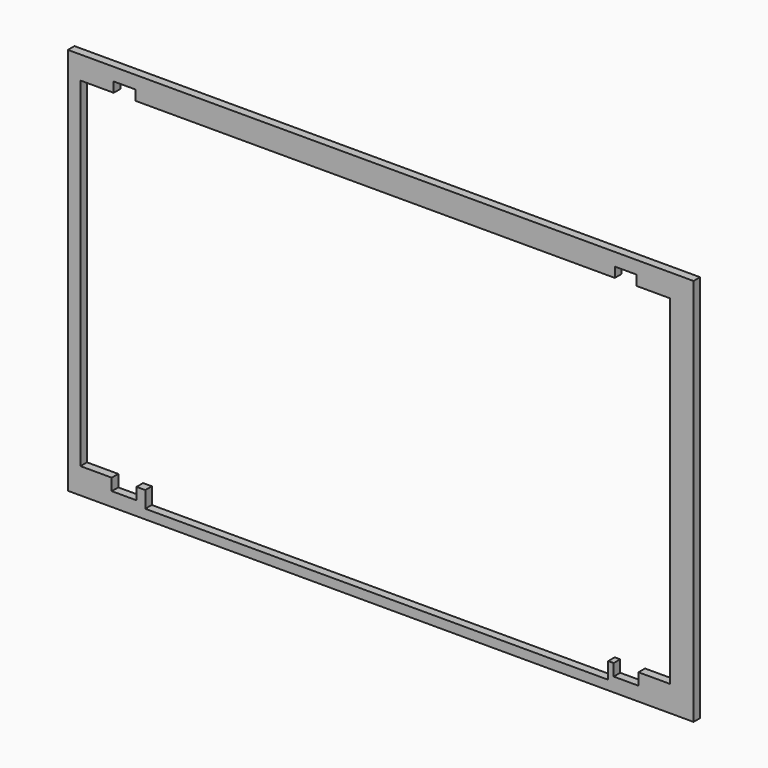
from build123d import *

# Parameters (mm, degrees)
F0_W     = 381.508
F0_H     = 236.728
F1_DEPTH = 5


with BuildPart() as f1:
    # F0 (on Front) → F1 (new body)
    with BuildSketch(Plane.XZ):
        with Locations((2.340291, -78.132914)):
            Rectangle(F0_W, F0_H)
        Polygon((-180.793709, -180.748914), (-180.793709, 26.261086), (-160.473709, 26.261086), (-160.473709, 32.357086), (-147.265709, 32.357086), (-147.265709, 26.261086), (145.088291, 26.261086), (145.088291, 32.357086), (158.296291, 32.357086), (158.296291, 26.261086), (178.616291, 26.261086), (178.616291, -180.748914), (159.515491, -180.748914), (159.515491, -187.987914), (144.402491, -187.987914), (144.402491, -180.748914), (141.075091, -180.748914), (141.075091, -190.786994), (-141.245909, -190.786994), (-141.245909, -180.748914), (-146.579909, -180.748914), (-146.579909, -187.987914), (-161.692909, -187.987914), (-161.692909, -180.748914), align=None, mode=Mode.SUBTRACT)
    extrude(amount=F1_DEPTH)


solid = f1.part
